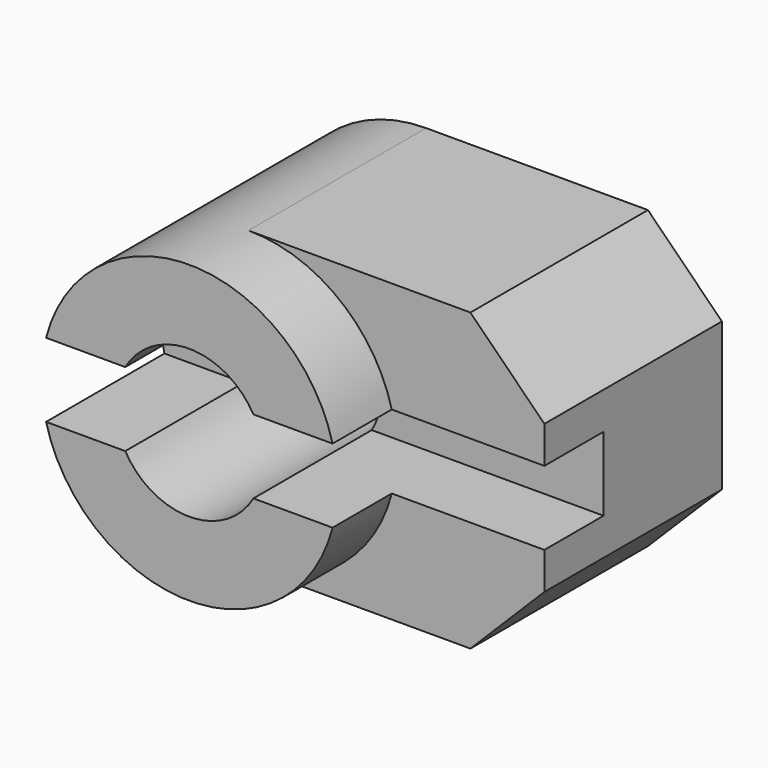
from build123d import *

# Parameters (mm, degrees)
F0_R     = 10
F1_DEPTH = 20
F3_DEPTH = 15
F4_R     = 5
F5_DEPTH = 20.001
F6_W     = 5
F6_H     = 5
F7_DEPTH = 30.001


with BuildPart() as f1:
    # F0 (on Front) → F1 (new body)
    with BuildSketch(Plane.XZ):
        Circle(F0_R)
    extrude(amount=F1_DEPTH)

    # F2 (on Front) → F3 (join)
    with BuildSketch(Plane.XZ):
        with BuildLine():
            ThreePointArc((0, 10), (7.071068, 7.071068), (10, 0))
            ThreePointArc((10, 0), (7.071068, -7.071068), (0, -10))
            Line((0, -10), (15, -10))
            Line((15, -10), (20, -5))
            Line((20, -5), (20, 0))
            Line((20, 0), (20, 5))
            Line((20, 5), (15, 10))
            Line((15, 10), (0, 10))
        make_face()
    extrude(amount=F3_DEPTH)

    # F4 (on face) → F5 (cut, through all)
    with BuildSketch(Plane.XZ.offset(20)):
        Circle(F4_R)
    extrude(amount=-F5_DEPTH, mode=Mode.SUBTRACT)

    # F6 (on face) → F7 (cut, through all)
    with BuildSketch(Plane.YZ.offset(20)):
        with Locations((-17.5, 0)):
            Rectangle(F6_W, F6_H)
        with Locations((-12.5, 0)):
            Rectangle(F6_W, F6_H)
    extrude(amount=-F7_DEPTH, mode=Mode.SUBTRACT)


solid = f1.part
